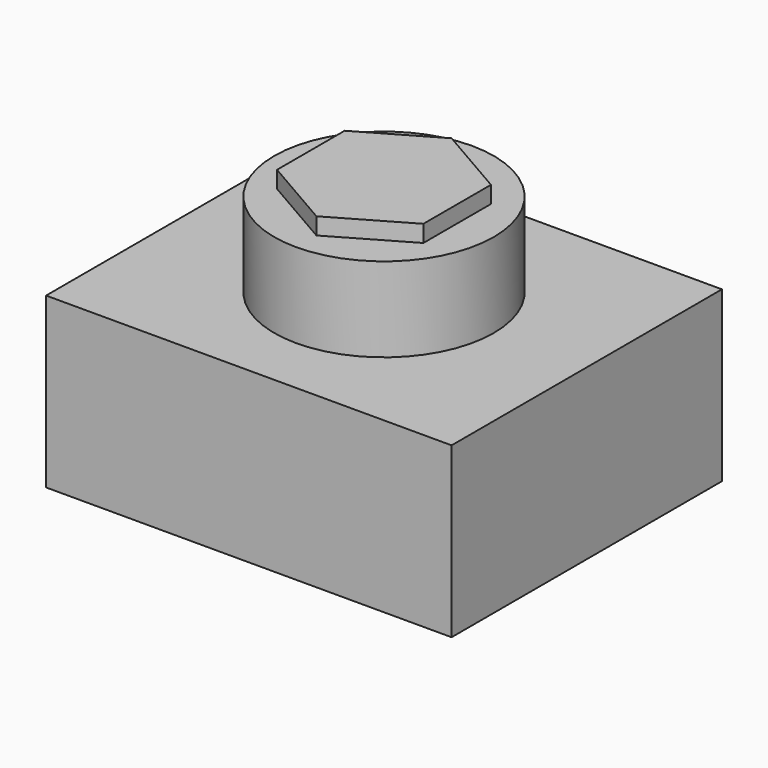
from build123d import *

# Parameters (mm, degrees)
F0_W     = 120
F0_H     = 100
F1_DEPTH = 50
F2_R     = 32.5
F3_DEPTH = 25
F5_DEPTH = 5


with BuildPart() as f1:
    # F0 (on Top) → F1 (new body)
    with BuildSketch(Plane.XY):
        Rectangle(F0_W, F0_H)
    extrude(amount=F1_DEPTH)

    # F2 (on face) → F3 (join)
    with BuildSketch(Plane.XY.offset(50)):
        Circle(F2_R)
    extrude(amount=F3_DEPTH)

    # F4 (on face) → F5 (join)
    with BuildSketch(Plane.XY.offset(75)):
        Polygon((-21.650635, -12.5), (0, -25), (21.650635, -12.5), (21.650635, 12.5), (0, 25), (-21.650635, 12.5), align=None)
    extrude(amount=F5_DEPTH)


solid = f1.part
